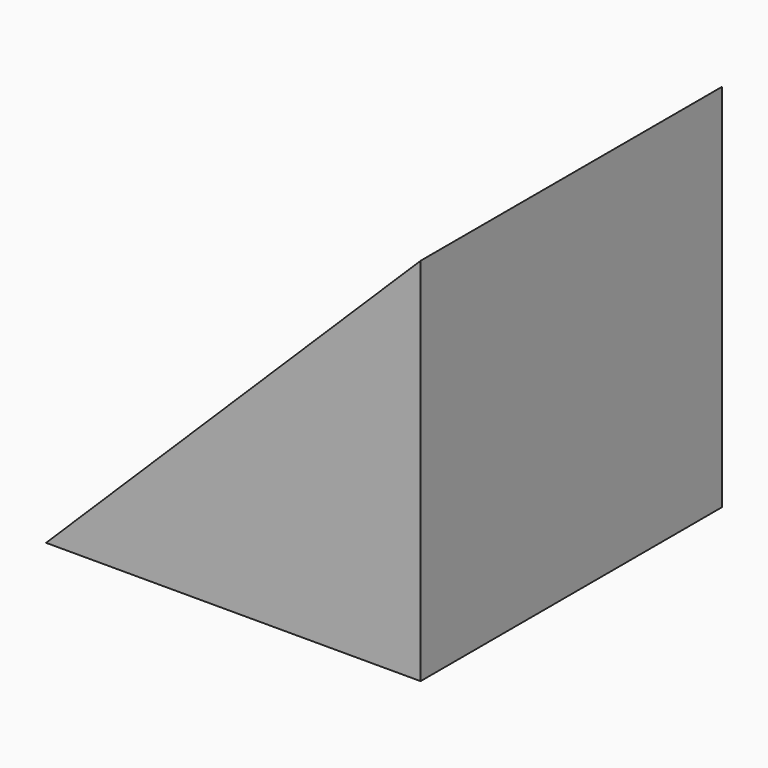
from build123d import *

# Parameters (mm, degrees)
F0_W     = 43.434
F0_H     = 43.688
F0_R     = 9.779
F1_DEPTH = 42.926
F3_DEPTH = 43.689


with BuildPart() as f1:
    # F0 (on Top) → F1 (new body)
    with BuildSketch(Plane.XY):
        with Locations((2.010302, 11.841255)):
            Rectangle(F0_W, F0_H)
        with Locations((0.994302, 11.841255)):
            Circle(F0_R, mode=Mode.SUBTRACT)
    extrude(amount=F1_DEPTH)

    # F2 (on face) → F3 (cut, through all)
    with BuildSketch(Plane.XZ.offset(10.002745)):
        Polygon((-19.706698, 0), (23.727302, 42.926), (-19.706698, 42.926), align=None)
    extrude(amount=-F3_DEPTH, mode=Mode.SUBTRACT)


solid = f1.part
